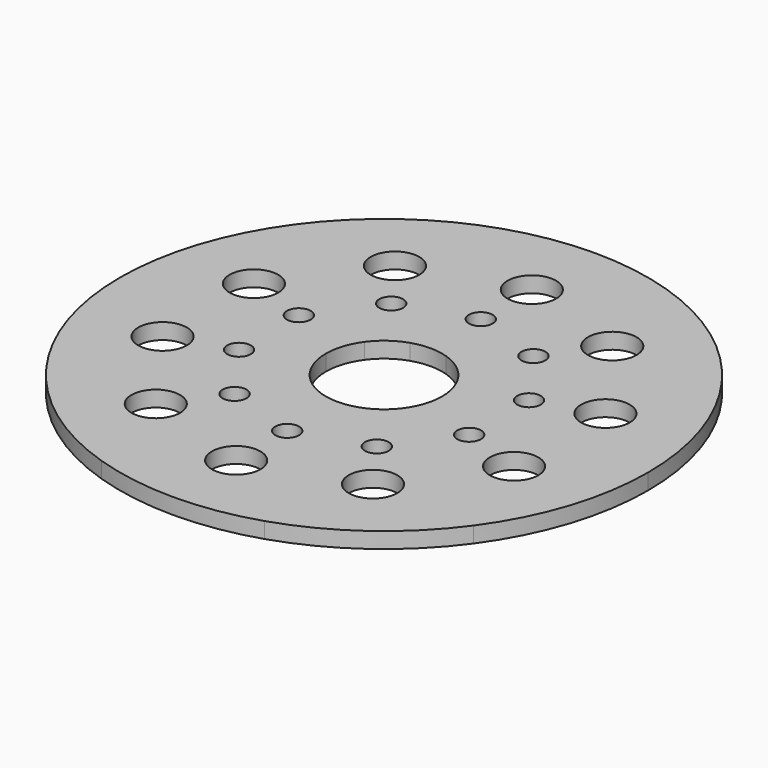
from build123d import *

# Parameters (mm, degrees)
F0_R     = 4.6
F0_R_2   = 2.25
F1_DEPTH = 3


with BuildPart() as f1:
    # F0 (on Top) → F1 (new body)
    with BuildSketch(Plane.XY):
        with BuildLine():
            ThreePointArc((40.45085, 29.389263), (29.389263, 40.45085), (15.45085, 47.552826))
            ThreePointArc((15.45085, 47.552826), (0, 50), (-15.45085, 47.552826))
            ThreePointArc((-15.45085, 47.552826), (-29.389263, 40.45085), (-40.45085, 29.389263))
            ThreePointArc((-40.45085, 29.389263), (-47.552826, 15.45085), (-50, 0))
            ThreePointArc((-50, 0), (-47.552826, -15.45085), (-40.45085, -29.389263))
            ThreePointArc((-40.45085, -29.389263), (-29.389263, -40.45085), (-15.45085, -47.552826))
            ThreePointArc((-15.45085, -47.552826), (0, -50), (15.45085, -47.552826))
            ThreePointArc((15.45085, -47.552826), (29.389263, -40.45085), (40.45085, -29.389263))
            ThreePointArc((40.45085, -29.389263), (47.552826, -15.45085), (50, 0))
            ThreePointArc((50, 0), (47.552826, 15.45085), (40.45085, 29.389263))
        make_face()
        with Locations((-20.572484, -28.315595)):
            Circle(F0_R, mode=Mode.SUBTRACT)
        with Locations((-33.286978, -10.815595)):
            Circle(F0_R, mode=Mode.SUBTRACT)
        with Locations((-13.468813, -18.538231)):
            Circle(F0_R_2, mode=Mode.SUBTRACT)
        with Locations((-21.792998, -7.080974)):
            Circle(F0_R_2, mode=Mode.SUBTRACT)
        with Locations((0, -35)):
            Circle(F0_R, mode=Mode.SUBTRACT)
        with Locations((20.572484, -28.315595)):
            Circle(F0_R, mode=Mode.SUBTRACT)
        with Locations((0, -22.914514)):
            Circle(F0_R_2, mode=Mode.SUBTRACT)
        with Locations((13.468813, -18.538231)):
            Circle(F0_R_2, mode=Mode.SUBTRACT)
        with BuildLine():
            ThreePointArc((-3.399187, 10.461622), (0, 11), (3.399187, 10.461622))
            ThreePointArc((3.399187, 10.461622), (6.465638, 8.899187), (8.899187, 6.465638))
            ThreePointArc((8.899187, 6.465638), (10.461622, 3.399187), (11, 0))
            ThreePointArc((11, 0), (10.461622, -3.399187), (8.899187, -6.465638))
            ThreePointArc((8.899187, -6.465638), (6.465638, -8.899187), (3.399187, -10.461622))
            ThreePointArc((3.399187, -10.461622), (0, -11), (-3.399187, -10.461622))
            ThreePointArc((-3.399187, -10.461622), (-6.465638, -8.899187), (-8.899187, -6.465638))
            ThreePointArc((-8.899187, -6.465638), (-10.461622, -3.399187), (-11, 0))
            ThreePointArc((-11, 0), (-10.461622, 3.399187), (-8.899187, 6.465638))
            ThreePointArc((-8.899187, 6.465638), (-6.465638, 8.899187), (-3.399187, 10.461622))
        make_face(mode=Mode.SUBTRACT)
        with Locations((21.792998, -7.080974)):
            Circle(F0_R_2, mode=Mode.SUBTRACT)
        with Locations((33.286978, -10.815595)):
            Circle(F0_R, mode=Mode.SUBTRACT)
        with Locations((-33.286978, 10.815595)):
            Circle(F0_R, mode=Mode.SUBTRACT)
        with Locations((-21.792998, 7.080974)):
            Circle(F0_R_2, mode=Mode.SUBTRACT)
        with Locations((-13.468813, 18.538231)):
            Circle(F0_R_2, mode=Mode.SUBTRACT)
        with Locations((-20.572484, 28.315595)):
            Circle(F0_R, mode=Mode.SUBTRACT)
        with Locations((21.792998, 7.080974)):
            Circle(F0_R_2, mode=Mode.SUBTRACT)
        with Locations((0, 22.914514)):
            Circle(F0_R_2, mode=Mode.SUBTRACT)
        with Locations((13.468813, 18.538231)):
            Circle(F0_R_2, mode=Mode.SUBTRACT)
        with Locations((33.286978, 10.815595)):
            Circle(F0_R, mode=Mode.SUBTRACT)
        with Locations((0, 35)):
            Circle(F0_R, mode=Mode.SUBTRACT)
        with Locations((20.572484, 28.315595)):
            Circle(F0_R, mode=Mode.SUBTRACT)
    extrude(amount=F1_DEPTH)


solid = f1.part
